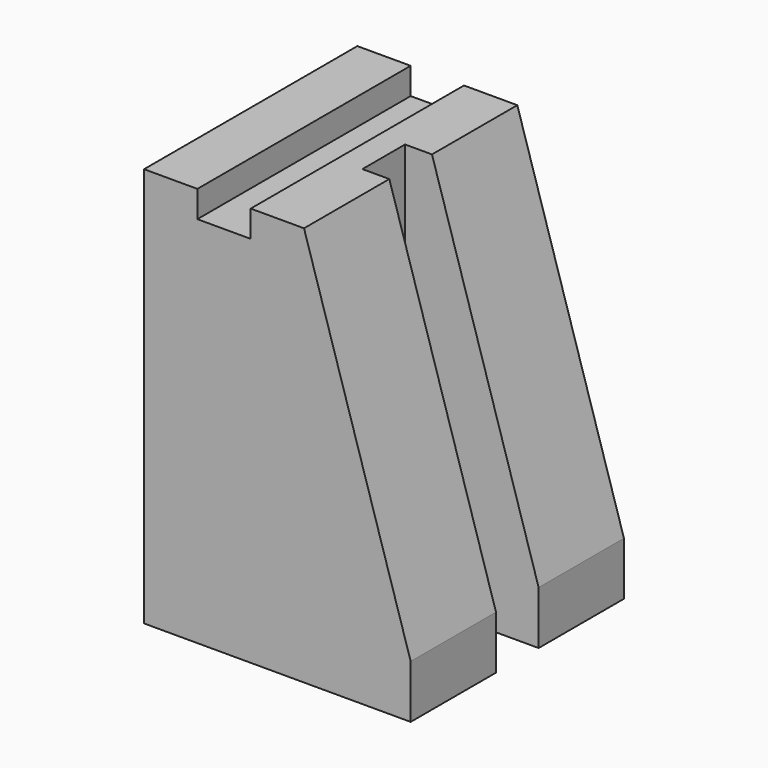
from build123d import *

# Parameters (mm, degrees)
F1_DEPTH = 100
F3_DEPTH = 182


with BuildPart() as f1:
    # F0 (on Front) → F1 (new body)
    with BuildSketch(Plane.XZ):
        Polygon((0, 150), (0, 0), (100, 0), (100, 20), (60, 150), (40, 150), (40, 140), (20, 140), (20, 150), align=None)
    extrude(amount=F1_DEPTH)

    # F2 (on face) → F3 (cut)
    with BuildSketch(Plane.XY.offset(150)):
        Polygon((140, -60), (140, -50), (140, -40), (49.901433, -40), (49.901433, -60), align=None)
    extrude(amount=-F3_DEPTH, mode=Mode.SUBTRACT)


solid = f1.part
